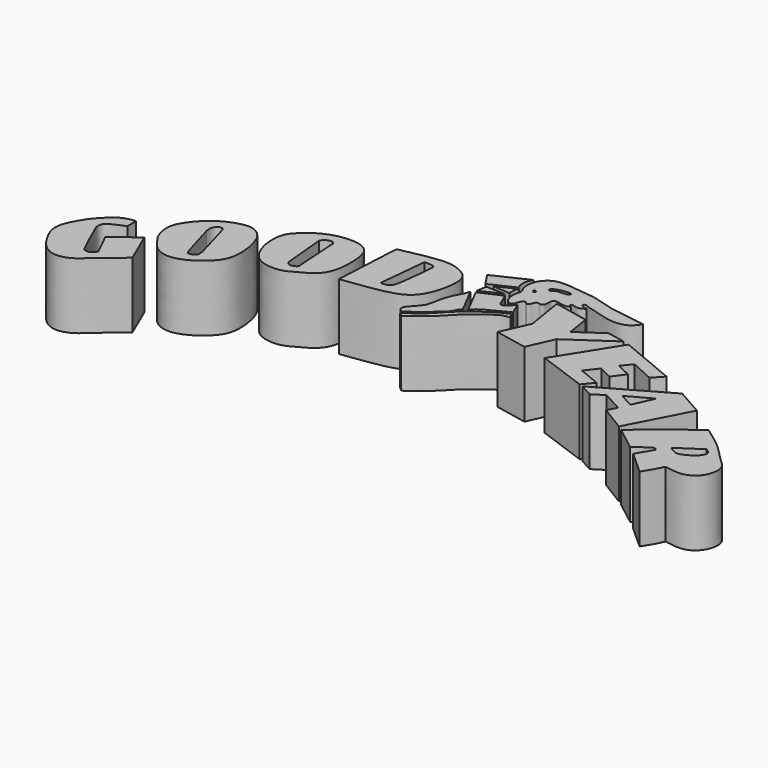
from build123d import *

# Parameters (mm, degrees)
F1_DEPTH = 25.4


with BuildPart() as f1:
    # F0 (on Top) → F1 (new body)
    with BuildSketch(Plane.XY):
        with BuildLine():
            Line((-59.8576515913, 15.4813658446), (-59.7697272897, 19.6458827704))
            add(Edge.make_bspline(
                [(-59.7697272897, 19.6458827704), (-60.8045802238, 19.6897784896), (-64.1050694296, 19.0849969587), (-66.5879847444, 17.3741884209), (-70.3066333627, 13.9831390633), (-73.2592314533, 10.0758974312), (-75.8568664861, 4.8646876114), (-76.3143573798, 2.5273009245), (-76.3386264188, -0.1308010066), (-75.0717962995, -3.6789260849), (-72.5008604249, -8.0754405282), (-69.4058962384, -11.4566076956), (-64.5262579878, -13.2317809144), (-58.8818237316, -11.0409963446), (-55.3778019727, -7.5162456198), (-51.1283326105, -3.910557249), (-47.5539763201, -1.0209620634), (-45.8099097013, 0.355010794)],
                knots=[0, 0, 0, 0, 0.0637228382, 0.1196227695, 0.1884018169, 0.2600330263, 0.3347066794, 0.3826974947, 0.4319818985, 0.4926928507, 0.5636536392, 0.6304277082, 0.6992568281, 0.7741446525, 0.8439132015, 0.9179230653, 1, 1, 1, 1], degree=3))
            Line((-45.8099097013, 0.355010794), (-51.246214658, 12.9607347772))
            Line((-51.246214658, 12.9607347772), (-60.6256835163, 5.8755846694))
            Line((-60.6256835163, 5.8755846694), (-56.410510093, -2.6936687063))
            add(Edge.make_bspline(
                [(-59.8576515913, 15.4813658446), (-60.733794174, 15.147527999), (-62.4086082569, 14.5093712239), (-64.3717405723, 13.4234410115), (-66.5489640426, 12.3952383552), (-67.1355221817, 9.7835324016), (-65.9693161309, 7.4376323585), (-64.0015059175, 2.7336730194), (-62.4502795104, -0.6749388079), (-61.0155978392, -3.3207992277), (-60.7129566927, -4.4256581223), (-58.9023622539, -5.2335102794), (-56.8936322963, -4.2060994477), (-56.5634003078, -3.1722968036), (-56.410510093, -2.6936687063)],
                knots=[0, 0, 0, 0, 0.0882605338, 0.1687168137, 0.2489048881, 0.3296621874, 0.4157487741, 0.5361183845, 0.6431148571, 0.7330881749, 0.7880728859, 0.8578399155, 0.9341829786, 1, 1, 1, 1], degree=3))
        make_face()
    extrude(amount=F1_DEPTH)


with BuildPart() as f1b:
    # F0 (on Top) → F1, piece 2 (new body)
    with BuildSketch(Plane.XY):
        with BuildLine():
            add(Edge.make_bspline(
                [(-49.8907119036, 22.3052892834), (-49.8478870939, 23.7873957958), (-48.9722849549, 26.589104452), (-44.3174310574, 32.8163378152), (-38.6592870547, 36.424859765), (-33.3857436103, 38.2327029636), (-29.1899587853, 38.3345240535), (-24.9562830557, 35.3930548222), (-22.9137686124, 29.5191389013), (-22.1414721002, 23.9100320175), (-22.5649619303, 17.4194356151), (-27.4690308201, 12.1884500501), (-32.6999268067, 8.8737739115), (-38.2733544247, 7.2929987996), (-43.7659981389, 9.2742263225), (-46.891908564, 13.5809675818), (-49.2562192615, 16.9199644813), (-49.9381216647, 20.6645040427), (-49.8907119036, 22.3052892834)],
                knots=[0, 0, 0, 0, 0.0549350162, 0.1279042569, 0.1974326319, 0.2592704011, 0.3120567895, 0.3697179731, 0.4349766537, 0.4986451471, 0.5645951171, 0.6341830582, 0.7004809828, 0.7629444993, 0.8249498394, 0.8851265932, 0.9391834777, 1, 1, 1, 1], degree=3))
        make_face()
        with BuildLine():
            add(Edge.make_bspline(
                [(-39.3599234521, 28.044577688), (-39.4462101101, 28.8142421004), (-39.6136419224, 30.3077094626), (-38.4701433309, 32.0869896403), (-36.8148407198, 32.6341186435), (-36.2905977923, 32.005410927), (-36.0497906804, 31.7166186869)],
                knots=[0, 0, 0, 0, 0.2910794605, 0.5648145698, 0.800100791, 1, 1, 1, 1], degree=3))
            Line((-36.0497906804, 31.7166186869), (-31.8456962705, 16.837367788))
            add(Edge.make_bspline(
                [(-31.8456962705, 16.837367788), (-31.6990484173, 15.7922566779), (-31.4003894676, 13.9873628396), (-33.0822221185, 13.3657478874), (-34.5232835731, 12.6869239615), (-35.2937276688, 13.9250140943), (-35.4026779532, 14.5789505914)],
                knots=[0, 0, 0, 0, 0.3046995144, 0.5332373911, 0.7499686741, 1, 1, 1, 1], degree=3))
            Line((-35.4026779532, 14.5789505914), (-39.3599234521, 28.044577688))
        make_face(mode=Mode.SUBTRACT)
    extrude(amount=F1_DEPTH)


with BuildPart() as f1c:
    # F0 (on Top) → F1, piece 3 (new body)
    with BuildSketch(Plane.XY):
        with BuildLine():
            add(Edge.make_bspline(
                [(-18.2003825903, 42.6425226033), (-16.9204937698, 44.170979528), (-12.7529267037, 47.8270864244), (-6.4833370908, 50.1758944664), (-1.3534400782, 50.516559467), (2.3963191751, 50.1035767557), (6.8224775843, 47.6887214032), (7.7976928023, 39.5598098725), (7.2649118086, 32.3280206074), (4.6092245442, 27.1101253597), (-1.5429926672, 23.8885418293), (-5.8659858504, 21.3896494949), (-12.3806010343, 21.644340769), (-16.6080998499, 24.2259570493), (-19.0489288318, 28.4400510404), (-20.5274047941, 33.757100575), (-20.1892331632, 39.5171492626), (-19.1076027956, 41.5591105265), (-18.2003825903, 42.6425226033)],
                knots=[0, 0, 0, 0, 0.0717264383, 0.1411449415, 0.2003434596, 0.2512415794, 0.3067971668, 0.3807165439, 0.4528443412, 0.5151462487, 0.5836124028, 0.6433200838, 0.7089709959, 0.7668280207, 0.8241205242, 0.8868933229, 0.9491583386, 1, 1, 1, 1], degree=3))
        make_face()
        with BuildLine():
            Line((-7.3503432795, 27.4524707347), (-8.9003490284, 44.1925302148))
            add(Edge.make_bspline(
                [(-8.9003490284, 44.1925302148), (-8.6779577379, 44.5394247411), (-8.1982655581, 45.2876671346), (-6.7271989258, 46.1778837206), (-5.0778121695, 46.27073938), (-4.6201466145, 45.5420560985), (-4.4053327292, 45.200034976)],
                knots=[0, 0, 0, 0, 0.2389293944, 0.5153644363, 0.7725272368, 1, 1, 1, 1], degree=3))
            Line((-4.4053327292, 45.200034976), (-3.3978291322, 28.7699755281))
            add(Edge.make_bspline(
                [(-7.3503432795, 27.4524707347), (-7.0939624858, 27.1124793032), (-6.583046577, 26.4107730559), (-5.6218970367, 26.2400945205), (-4.6400609016, 26.3860833576), (-3.0490328442, 27.065792265), (-3.3279622707, 28.4530031208), (-3.3978291322, 28.7699755281)],
                knots=[0, 0, 0, 0, 0.2037382216, 0.3742470679, 0.5573825335, 0.7798908956, 1, 1, 1, 1], degree=3))
        make_face(mode=Mode.SUBTRACT)
    extrude(amount=F1_DEPTH)


with BuildPart() as f1d:
    # F0 (on Top) → F1, piece 4 (new body)
    with BuildSketch(Plane.XY):
        with BuildLine():
            Line((12.7525208518, 54.3326698244), (11.3983321935, 28.2645393163))
            add(Edge.make_bspline(
                [(12.7525208518, 54.3326698244), (15.084229791, 54.844192418), (19.9155787279, 55.9040777654), (28.5041466481, 57.3411935891), (33.999229324, 56.8064697492), (40.7592818345, 53.248331949), (40.4442035573, 45.35073814), (38.5319249195, 38.3692254582), (34.9581280804, 33.1687967441), (28.7249282749, 30.8938469888), (20.9428367831, 29.5458318164), (14.6868118558, 28.705997989), (11.3983321935, 28.2645393163)],
                knots=[0, 0, 0, 0, 0.1015327627, 0.2103779752, 0.2986976534, 0.3941567241, 0.4936564746, 0.5948986489, 0.6855242664, 0.7789067121, 0.8837823076, 1, 1, 1, 1], degree=3))
        make_face()
        with BuildLine():
            Line((22.7396637201, 34.1891162097), (24.6016718447, 52.9784820974))
            add(Edge.make_bspline(
                [(24.6016718447, 52.9784820974), (25.4940884288, 53.0133537319), (27.0450112929, 53.0739568361), (28.8073138389, 52.6769977468), (28.660605516, 49.7947580422), (27.7455384607, 41.2048994249), (26.9521515105, 36.194872154), (26.2067267485, 35.1258378592), (25.1746654824, 34.246291623), (23.6414052934, 34.210289684), (22.7396637201, 34.1891162097)],
                knots=[0, 0, 0, 0, 0.1199005303, 0.2083740679, 0.3239169553, 0.5518629203, 0.7204737186, 0.7999341476, 0.8823371938, 1, 1, 1, 1], degree=3))
        make_face(mode=Mode.SUBTRACT)
    extrude(amount=F1_DEPTH)


with BuildPart() as f1e:
    # F0 (on Top) → F1, piece 5 (new body)
    with BuildSketch(Plane.XY):
        with BuildLine():
            add(Edge.make_bspline(
                [(47.4611185491, 46.5704239905), (47.1883681944, 45.7661829908), (46.618278384, 44.0851967291), (44.9579933261, 41.5015090534), (43.2720348949, 36.994364675), (42.9795043086, 31.9406896146), (39.8928555578, 28.4983284629), (37.9065483848, 26.5196279564), (37.7118312693, 24.7299683213), (38.622861164, 23.9911137668), (39.093349129, 23.6095432192)],
                knots=[0, 0, 0, 0, 0.1137294592, 0.237711903, 0.3932759555, 0.5529741184, 0.7037569044, 0.8215066408, 0.9078197348, 1, 1, 1, 1], degree=3))
            add(Edge.make_bspline(
                [(39.093349129, 23.6095432192), (40.8339068544, 24.6422529475), (44.2488800212, 26.7059413575), (48.5062910418, 31.0983288245), (51.0283535068, 33.0003045464), (51.6061245208, 34.9118668219), (52.3084728213, 35.8278718381), (52.9228523374, 36.0042825341)],
                knots=[0, 0, 0, 0, 0.2649694404, 0.5299849853, 0.7164164586, 0.8622645189, 1, 1, 1, 1], degree=3))
            Line((52.9228523374, 36.0042825341), (47.4611185491, 46.5704239905))
        make_face()
    extrude(amount=F1_DEPTH)


with BuildPart() as f1f:
    # F0 (on Top) → F1, piece 6 (new body)
    with BuildSketch(Plane.XY):
        with BuildLine():
            Line((39.5255573094, 22.6894263178), (40.9611612558, 21.3101189584))
            add(Edge.make_bspline(
                [(67.1933442354, 41.3051396608), (66.817956062, 40.9412733409), (65.9975354952, 40.8564904968), (64.3670388994, 40.5819954974), (62.2605813926, 39.366001959), (57.8788876114, 36.0032813588), (53.9249378303, 32.8830617617), (49.765239653, 28.0970138445), (46.9484373656, 26.062712689), (44.2069332071, 23.4779773119), (42.0654672823, 22.0477216703), (40.9611612558, 21.3101189584)],
                knots=[0, 0, 0, 0, 0.0673612925, 0.1410234895, 0.23291277, 0.37138731, 0.5093737325, 0.6571656042, 0.7685249934, 0.8820382629, 1, 1, 1, 1], degree=3))
            Line((67.1933442354, 41.3051396608), (65.8802688122, 43.0816523731))
            add(Edge.make_bspline(
                [(65.8802688122, 43.0816523731), (65.4738911751, 42.6141659879), (64.2980226756, 42.2689192056), (62.3629458758, 41.2180434659), (59.5710685424, 39.5270009592), (56.8492331264, 37.511697424), (53.7337516352, 35.4689851949), (48.8948431952, 30.5096404187), (48.0700858454, 29.3364795266), (46.0087057506, 27.510983353), (43.9556814261, 25.3020283906), (41.4074799413, 24.159348702), (40.1339707471, 23.1646489411), (39.5255573094, 22.6894263178)],
                knots=[0, 0, 0, 0, 0.0701422244, 0.1488220357, 0.2450188714, 0.3413614689, 0.4482701294, 0.5858524112, 0.6512653109, 0.7365394688, 0.8302425339, 0.9183482831, 1, 1, 1, 1], degree=3))
        make_face()
    extrude(amount=F1_DEPTH)


with BuildPart() as f1g:
    # F0 (on Top) → F1, piece 7 (new body)
    with BuildSketch(Plane.XY):
        with BuildLine():
            Line((44.5073880255, 58.2756400108), (47.8146784008, 53.3759519458))
            Line((47.8146784008, 53.3759519458), (57.0628382266, 57.7856712043))
            add(Edge.make_bspline(
                [(57.4303157628, 64.4002482295), (57.061574373, 63.6517070239), (56.3059406258, 62.1177783366), (56.349761936, 59.1827418515), (56.8509113599, 58.2008817627), (57.0628382266, 57.7856712043)],
                knots=[0, 0, 0, 0, 0.3548566186, 0.7271807392, 1, 1, 1, 1], degree=3))
            Line((57.4303157628, 64.4002482295), (44.5073880255, 58.2756400108))
        make_face()
    extrude(amount=F1_DEPTH)


with BuildPart() as f1h:
    # F0 (on Top) → F1, piece 8 (new body)
    with BuildSketch(Plane.XY):
        with BuildLine():
            Line((57.6870932768, 57.0870762274), (50.6319962442, 53.743429482))
            Line((50.6319962442, 53.743429482), (57.3078244925, 53.1922131777))
            add(Edge.make_bspline(
                [(57.6870932768, 57.0870762274), (57.3774953202, 56.4701031861), (57.0925210563, 55.9313056547), (57.0255017822, 53.8517731969), (57.3078244925, 53.1922131777)],
                knots=[0, 0, 0, 0, 0.4321300752, 1, 1, 1, 1], degree=3))
        make_face()
    extrude(amount=F1_DEPTH)


with BuildPart() as f1i:
    # F0 (on Top) → F1, piece 9 (new body)
    with BuildSketch(Plane.XY):
        Polygon((49.1715855896, 52.1896518767), (48.5492832959, 48.3175516129), (56.2934875488, 51.9130751491), align=None)
    extrude(amount=F1_DEPTH)


with BuildPart() as f1j:
    # F0 (on Top) → F1, piece 10 (new body)
    with BuildSketch(Plane.XY):
        with BuildLine():
            Line((57.1870356798, 51.0750189424), (48.9353847441, 47.2896913111))
            Line((48.9353847441, 47.2896913111), (54.3052169743, 36.9013404429))
            add(Edge.make_bspline(
                [(54.3052169743, 36.9013404429), (54.6527955237, 37.4481801275), (55.5665217531, 38.8857307587), (60.8387193304, 41.5773857016), (64.160292669, 43.266199483), (65.8246055245, 44.1123992205)],
                knots=[0, 0, 0, 0, 0.2344886381, 0.6164316513, 1, 1, 1, 1], degree=3))
            Line((65.8246055245, 44.1123992205), (63.8290271163, 48.8632693887))
            add(Edge.make_bspline(
                [(58.3586542298, 48.5210029506), (58.619022585, 47.9508405373), (59.0905102195, 46.9183628107), (59.4858424904, 45.5038257468), (61.511770523, 45.7847379627), (62.9430487159, 47.6862256567), (63.8290271163, 48.8632693887)],
                knots=[0, 0, 0, 0, 0.2391394777, 0.4330453544, 0.6490482615, 1, 1, 1, 1], degree=3))
            Line((58.3586542298, 48.5210029506), (57.1870356798, 51.0750189424))
        make_face()
    extrude(amount=F1_DEPTH)


with BuildPart() as f1k:
    # F0 (on Top) → F1, piece 11 (new body)
    with BuildSketch(Plane.XY):
        with BuildLine():
            add(Edge.make_bspline(
                [(61.1841715872, 48.1443591416), (60.6785026779, 48.4256529876), (59.4081893871, 49.132303732), (58.3073678009, 53.6202581353), (59.8985650487, 56.2258777158), (57.9904385998, 58.3950181819), (58.0690319928, 62.9281263609), (60.1067823682, 66.1711613185), (63.2449554438, 68.2965667144), (68.1416123226, 68.35588881), (74.0460392304, 67.5177123121), (78.8871887994, 67.2818006693), (86.8733807493, 64.455961808), (91.4193192634, 64.0857610071), (97.0888279947, 62.9790434965), (99.9799595649, 62.6026358557), (101.3297140598, 62.4269060791)],
                knots=[0, 0, 0, 0, 0.0474275947, 0.1191449638, 0.1760499798, 0.2301918463, 0.3019653542, 0.3690272639, 0.4339457896, 0.5098370404, 0.5937313402, 0.671590452, 0.7706198326, 0.8464785951, 0.9283269539, 1, 1, 1, 1], degree=3))
            add(Edge.make_bspline(
                [(77.1762132645, 57.8498728573), (76.945348976, 57.6387731929), (76.3922923865, 57.1330645191), (74.3193610384, 57.2360541512), (72.819584493, 57.6342589678), (70.0394718857, 58.0012262715), (70.4162085582, 54.9363191513), (69.6562681654, 52.9468536057), (67.2264983108, 54.1328738825), (66.6635092422, 51.6380544342), (65.5597146824, 50.5259288781), (64.3271060541, 52.5808406744), (62.803024827, 50.3240358121), (62.6984246744, 48.6027882227), (61.5594610572, 47.9248166084), (61.1841715872, 48.1443591416)],
                knots=[0, 0, 0, 0, 0.0582446713, 0.1395304503, 0.2179972792, 0.3019853158, 0.3957395829, 0.4719965132, 0.5512460255, 0.6369041427, 0.6989927512, 0.7707137084, 0.8526797284, 0.9336902798, 1, 1, 1, 1], degree=3))
            add(Edge.make_bspline(
                [(81.7532464862, 59.7248002887), (81.1340261679, 59.2919104013), (79.9361332186, 58.454477054), (78.1174972161, 58.6008153917), (76.2817821261, 59.3398327738), (76.2653534607, 58.0626939459), (76.863491505, 57.9229398486), (77.1762132645, 57.8498728573)],
                knots=[0, 0, 0, 0, 0.2500494739, 0.4837252475, 0.6968100338, 0.841484586, 1, 1, 1, 1], degree=3))
            add(Edge.make_bspline(
                [(101.3297140598, 62.4269060791), (100.4803591825, 61.2600389314), (98.7525638802, 58.8863461087), (94.02335087, 57.8524020822), (88.8677782379, 58.7484435083), (84.3124633813, 60.3405446083), (81.2010501457, 60.8895861386), (79.9793361223, 61.8542118018), (78.8353808302, 60.8996339635), (79.7794602314, 60.3588690958), (80.6174155923, 59.8026932976), (81.3714882498, 59.7509805043), (81.7532464862, 59.7248002887)],
                knots=[0, 0, 0, 0, 0.1319923658, 0.2685047153, 0.4163547676, 0.5592449775, 0.6722797843, 0.7467888535, 0.8090971181, 0.865877974, 0.9320991318, 1, 1, 1, 1], degree=3))
        make_face()
        with BuildLine():
            add(Edge.make_bspline(
                [(61.7413260043, 59.2402368784), (61.878849696, 59.4401277087), (62.88372522, 59.4808985236), (62.8641334806, 58.2376565631), (61.9451955199, 58.2095416068), (62.5440735531, 59.0382231391), (61.8177002802, 58.6391167792), (61.6434803351, 59.0980180955), (61.7413260043, 59.2402368784)],
                knots=[0, 0, 0, 0, 0.2053910496, 0.4082314369, 0.5571352489, 0.7122141461, 0.8538679086, 1, 1, 1, 1], degree=3))
        make_face(mode=Mode.SUBTRACT)
        with BuildLine():
            add(Edge.make_bspline(
                [(65.2149543166, 62.8919973969), (65.4377127276, 63.2452265339), (66.3997839737, 63.8775592095), (68.4774955173, 64.4048133415), (70.1432815318, 64.5176138063), (72.1741976269, 64.8289998917), (72.0749182349, 63.1923518273), (69.2150530548, 63.3452821862), (66.8579153592, 62.9954903491), (66.169945185, 62.055795611), (64.9508074402, 62.0858277489), (65.0666797726, 62.6568777038), (65.2149543166, 62.8919973969)],
                knots=[0, 0, 0, 0, 0.0993961704, 0.2192034994, 0.3312378084, 0.4367202821, 0.5113753084, 0.6441329949, 0.7720836434, 0.8572053964, 0.9338389882, 1, 1, 1, 1], degree=3))
        make_face(mode=Mode.SUBTRACT)
    extrude(amount=F1_DEPTH)


with BuildPart() as f1l:
    # F0 (on Top) → F1, piece 12 (new body)
    with BuildSketch(Plane.XY):
        Polygon((85.8593930934, 53.9964003893), (72.6589486003, 56.6978864372), (75.0577375293, 41.9704541564), (70.233199125, 31.2080310462), (82.5425234041, 28.6889137683), (86.9958773255, 38.6233106256), (103.6758124828, 50.0593855977), (96.8053135668, 51.4654410509), (87.3297917487, 44.9688463765), align=None)
    extrude(amount=F1_DEPTH)


with BuildPart() as f1m:
    # F0 (on Top) → F1, piece 13 (new body)
    with BuildSketch(Plane.XY):
        Polygon((106.0950532556, 49.4171790779), (91.9072031975, 26.8217157573), (110.8243390918, 19.9905280024), (114.1523495317, 24.0191761404), (105.7447344065, 27.4347700179), (109.423071146, 32.1640521288), (114.6778315306, 29.5366737992), (118.0934235454, 34.1783761978), (112.4883443117, 36.8057563901), (115.553624928, 40.571667254), (124.4867146015, 36.4554412663), (128.0774623156, 40.3089299798), align=None)
    extrude(amount=F1_DEPTH)


with BuildPart() as f1n:
    # F0 (on Top) → F1, piece 14 (new body)
    with BuildSketch(Plane.XY):
        Polygon((138.6485427177, 34.5917081271), (112.28715922, 19.5280665342), (117.193043232, 16.8697610497), (121.5187236667, 19.5865482092), (129.3333470821, 15.3521113098), (127.5519877672, 11.8456501514), (137.1622085571, 5.949602928), (149.0177959204, 28.703821823), align=None)
        Polygon((131.0436673427, 19.1397599902), (125.4850984395, 22.1517297321), (134.5636219866, 27.1164040185), align=None, mode=Mode.SUBTRACT)
    extrude(amount=F1_DEPTH)


with BuildPart() as f1o:
    # F0 (on Top) → F1, piece 15 (new body)
    with BuildSketch(Plane.XY):
        with BuildLine():
            add(Edge.make_bspline(
                [(139.1377300024, 4.5717395842), (141.0228913128, 6.2867330027), (145.0810185058, 9.9785451513), (153.5829103112, 16.4761235488), (157.8273316012, 19.5326500687), (159.7693562508, 20.9311563522)],
                knots=[0, 0, 0, 0, 0.3200081187, 0.6888713667, 1, 1, 1, 1], degree=3))
            add(Edge.make_bspline(
                [(139.1377300024, 4.5717395842), (140.54371982, 3.5182907643), (143.448535939, 1.3418346659), (146.5848664156, -1.1328037122), (148.2031494379, -2.4096670095)],
                knots=[0, 0, 0, 0, 0.4840202477, 1, 1, 1, 1], degree=3))
            add(Edge.make_bspline(
                [(148.2031494379, -2.4096670095), (148.9543882351, -1.9706058587), (150.7730135314, -0.1834718923), (153.0440913547, 0.8676554984), (154.350951314, 1.862536883)],
                knots=[0, 0, 0, 0, 0.4622788981, 1, 1, 1, 1], degree=3))
            Line((154.350951314, 1.862536883), (155.2996635437, 1.0372925317))
            Line((155.2996635437, 1.0372925317), (151.6459286213, -5.2711139433))
            Line((151.6459286213, -5.2711139433), (160.3809595108, -13.1081473082))
            add(Edge.make_bspline(
                [(164.5625680685, -5.7440702803), (163.969079173, -6.9415107601), (162.8056524906, -9.4022829619), (161.0742500222, -11.9806865433), (160.3809595108, -13.1081473082)],
                knots=[0, 0, 0, 0, 0.4919382882, 1, 1, 1, 1], degree=3))
            add(Edge.make_bspline(
                [(159.7693562508, 20.9311563522), (162.7594804938, 18.8504205715), (168.5145070815, 14.8456740239), (174.6936146061, 7.8053681236), (179.0341427927, 4.3107529403), (177.7572619368, -2.9855508835), (172.1691024256, -7.1354983652), (167.1745514839, -6.2218683038), (164.5625680685, -5.7440702803)],
                knots=[0, 0, 0, 0, 0.20157016, 0.3879576686, 0.5253549186, 0.679361478, 0.8323167565, 1, 1, 1, 1], degree=3))
        make_face()
        with BuildLine():
            add(Edge.make_bspline(
                [(166.9937521219, 10.8223408461), (167.8370439901, 10.3143362251), (169.5692429009, 9.2708480993), (168.0187545911, 6.0115157632), (164.1138738947, 3.6864654316), (161.2466730144, 2.7610672528), (159.2357898353, 4.1778752877), (158.1656187773, 4.9318857491)],
                knots=[0, 0, 0, 0, 0.1783232322, 0.3662922889, 0.605311793, 0.7899510521, 1, 1, 1, 1], degree=3))
            Line((158.1656187773, 4.9318857491), (166.9937521219, 10.8223408461))
        make_face(mode=Mode.SUBTRACT)
    extrude(amount=F1_DEPTH)


solid = Compound([f1.part, f1b.part, f1c.part, f1d.part, f1e.part, f1f.part, f1g.part, f1h.part, f1i.part, f1j.part, f1k.part, f1l.part, f1m.part, f1n.part, f1o.part])
